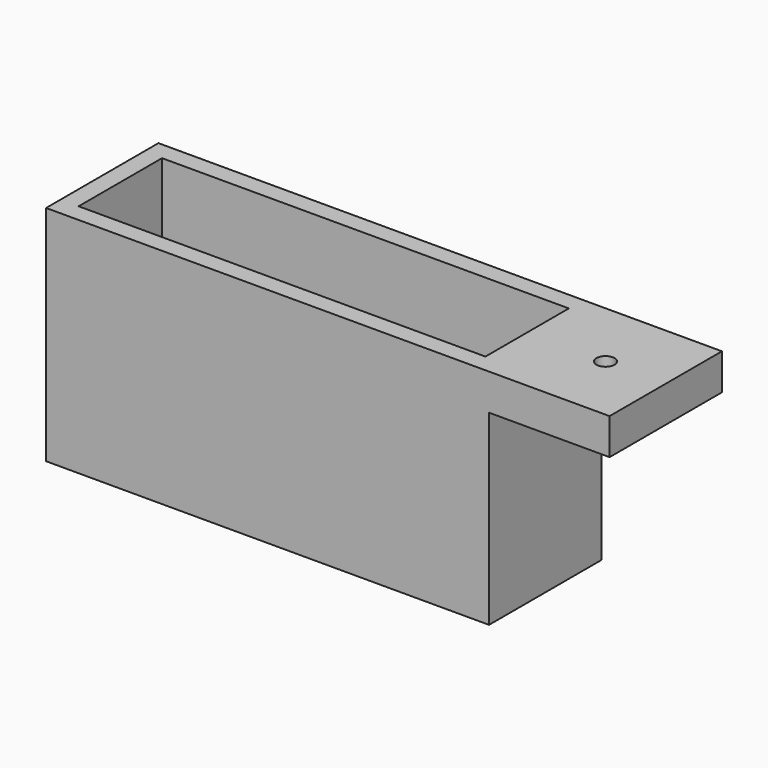
from build123d import *

# Parameters (mm, degrees)
SKETCH_W        = 73.5
SKETCH_H        = 23.3
PAD_DEPTH       = 37
SKETCH001_W     = 67.5
SKETCH001_H     = 17.3
POCKET_DEPTH    = 34
SKETCH002_W     = 23.3
SKETCH002_H     = 6
PAD001_DEPTH    = 20
SKETCH003_R     = 1.5
POCKET001_DEPTH = 30


with BuildPart() as part:
    # Sketch → Pad (new body)
    with BuildSketch(Plane.XY):
        with Locations((2.379754, 0.114429)):
            Rectangle(SKETCH_W, SKETCH_H)
    extrude(amount=PAD_DEPTH)

    # Sketch001 (on Face6 of Pad) → Pocket (cut)
    with BuildSketch(Plane.XY.offset(37)):
        with Locations((2.379754, 0.114429)):
            Rectangle(SKETCH001_W, SKETCH001_H)
    extrude(amount=-POCKET_DEPTH, mode=Mode.SUBTRACT)

    # Sketch002 (on Face6 of Pocket) → Pad001 (join)
    with BuildSketch(Plane.YZ.offset(39.129754)):
        with Locations((0.114429, 34)):
            Rectangle(SKETCH002_W, SKETCH002_H)
    extrude(amount=PAD001_DEPTH)

    # Sketch003 (on Face4 of Pad001) → Pocket001 (cut)
    with BuildSketch(Plane(origin=(0, 0, 31), x_dir=(1, 0, 0), z_dir=(0, 0, -1))):
        with Locations((49.129754, -0.114429)):
            Circle(SKETCH003_R)
    extrude(amount=-POCKET001_DEPTH, mode=Mode.SUBTRACT)


solid = part.part
